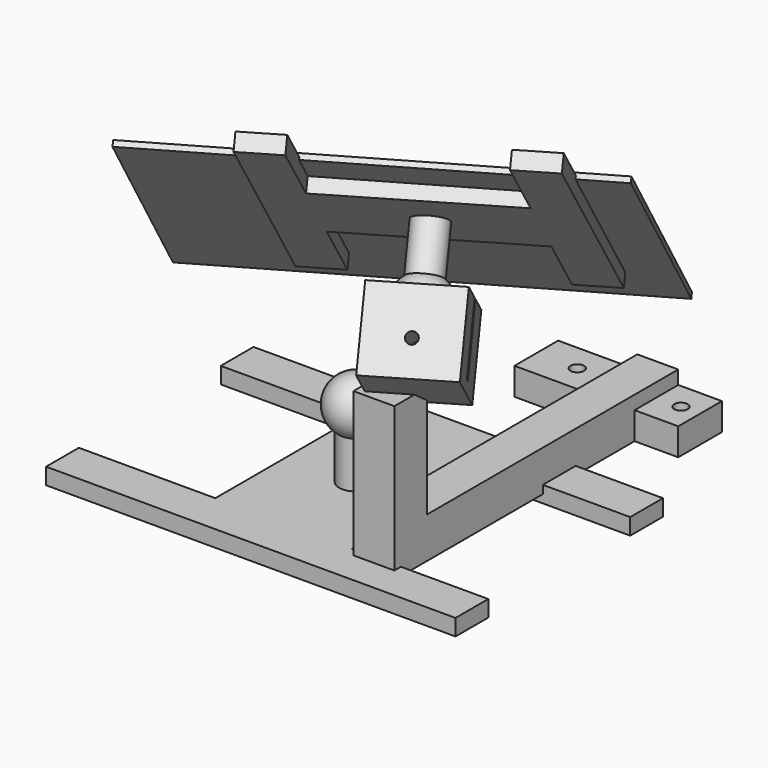
from build123d import *

# Parameters (mm, degrees)
BOX001_W                  = 150
BOX001_H                  = 150
BOX001_DEPTH              = 2
BOX001_PITCH_ANGLE        = -40
BOX001_PLACEMENT_ANGLE    = -60
SPHERE_PLACEMENT_ANGLE    = 300
CYLINDER002_R             = 6
CYLINDER002_DEPTH         = 30
SPHERE001_PLACEMENT_ANGLE = 60
BOX004_W                  = 150
BOX004_H                  = 15
BOX004_DEPTH              = 6
BOX005_W                  = 50
BOX005_H                  = 81
BOX005_DEPTH              = 6
BOX003_W                  = 150
BOX003_H                  = 15
BOX003_DEPTH              = 6
FUSION001_ROLL_ANGLE      = 0.348974
FUSION001_PITCH_ANGLE     = -39.860816
FUSION001_PLACEMENT_ANGLE = -60.209911
CYLINDER001_R             = 2.5
CYLINDER001_DEPTH         = 15
CYLINDER_R                = 2.5
CYLINDER_DEPTH            = 16
BOX009_W                  = 17
BOX009_H                  = 130
BOX009_DEPTH              = 56
BOX008_W                  = 15
BOX008_H                  = 130
BOX008_DEPTH              = 56
BOX_W                     = 60
BOX_H                     = 20
BOX_DEPTH                 = 10
CYLINDER003_R             = 2
CYLINDER003_DEPTH         = 40
BOX007_W                  = 2
BOX007_H                  = 30
BOX007_DEPTH              = 28
SPHERE002_PLACEMENT_ANGLE = 60
BOX006_W                  = 30
BOX006_H                  = 30
BOX006_DEPTH              = 28
CHAMFER_SIZE              = 1
CUT002_ROLL_ANGLE         = 0.348974
CUT002_PITCH_ANGLE        = -39.860816
CUT002_PLACEMENT_ANGLE    = -60.209911
CYLINDER004_R             = 6
CYLINDER004_DEPTH         = 30
SPHERE003_PLACEMENT_ANGLE = 60
BOX011_W                  = 150
BOX011_H                  = 15
BOX011_DEPTH              = 6
BOX012_W                  = 50
BOX012_H                  = 81
BOX012_DEPTH              = 6
BOX010_W                  = 150
BOX010_H                  = 15
BOX010_DEPTH              = 6
FUSION006_PLACEMENT_ANGLE = 180


with BuildPart() as cube001:
    # Box001 → Box001 (new body)
    with BuildSketch(Plane.XY):
        with Locations((75, 75)):
            Rectangle(BOX001_W, BOX001_H)
    extrude(amount=BOX001_DEPTH)


with BuildPart() as cube001_1:
    # Box001 pitch: moved
    add(cube001.part.rotate(Axis((0, 0, 0), (0, 1, 0)), BOX001_PITCH_ANGLE))


with BuildPart() as cube001_2:
    # Box001 placement: moved
    add(cube001_1.part.moved(Location((-101.324972, -58.5, 35))).rotate(Axis((-101.324972, -58.5, 35), (0, 0, 1)), BOX001_PLACEMENT_ANGLE))


with BuildPart() as sphere:
    # Sphere → Sphere (revolve)
    with BuildSketch(Plane.XZ):
        with BuildLine():
            ThreePointArc((0, -5), (5, 0), (0, 5))
            Line((0, 5), (0, -5))
        make_face()
    revolve(axis=Axis((0, 0, 0), (0, 0, 1)))


with BuildPart() as sphere_1:
    # Sphere placement: moved
    add(sphere.part.moved(Location((14, -84, 102))).rotate(Axis((14, -84, 102), (0, 0, 1)), SPHERE_PLACEMENT_ANGLE))


with BuildPart() as cylinder002:
    # Cylinder002 → Cylinder002 (new body)
    with BuildSketch(Plane(origin=(14, -84, 72), x_dir=(1, 0, 0), z_dir=(0, 0, 1))):
        Circle(CYLINDER002_R)
    extrude(amount=CYLINDER002_DEPTH)


with BuildPart() as sphere001:
    # Sphere001 → Sphere001 (revolve)
    with BuildSketch(Plane.XZ):
        with BuildLine():
            ThreePointArc((0, -10), (10, 0), (0, 10))
            Line((0, 10), (0, -10))
        make_face()
    revolve(axis=Axis((0, 0, 0), (0, 0, 1)))


with BuildPart() as sphere001_1:
    # Sphere001 placement: moved
    add(sphere001.part.moved(Location((14, -84, 72))).rotate(Axis((14, -84, 72), (0, 0, -1)), SPHERE001_PLACEMENT_ANGLE))


with BuildPart() as cube004:
    # Box004 → Box004 (new body)
    with BuildSketch(Plane(origin=(-61, -132, 0), x_dir=(1, 0, 0), z_dir=(0, 0, 1))):
        with Locations((75, 7.5)):
            Rectangle(BOX004_W, BOX004_H)
    extrude(amount=BOX004_DEPTH)


with BuildPart() as cube005:
    # Box005 → Box005 (new body)
    with BuildSketch(Plane(origin=(-11, -125, 0), x_dir=(1, 0, 0), z_dir=(0, 0, 1))):
        with Locations((25, 40.5)):
            Rectangle(BOX005_W, BOX005_H)
    extrude(amount=BOX005_DEPTH)


with BuildPart() as mirror_mount:
    # Box003 → Box003 (new body)
    with BuildSketch(Plane(origin=(-61, -52, 0), x_dir=(1, 0, 0), z_dir=(0, 0, 1))):
        with Locations((75, 7.5)):
            Rectangle(BOX003_W, BOX003_H)
    extrude(amount=BOX003_DEPTH)

    # Fusion: union Cube004, Cube005
    add(cube004.part)
    add(cube005.part)


with BuildPart() as mirror_mount_1:
    # Fusion placement: moved
    add(mirror_mount.part.moved(Location((0, 0, 97))))

    # Fusion001: union Cylinder002, Sphere001
    add(cylinder002.part)
    add(sphere001_1.part)


with BuildPart() as mirror_mount_2:
    # Fusion001 roll: moved
    add(mirror_mount_1.part.rotate(Axis((0, 0, 0), (1, 0, 0)), FUSION001_ROLL_ANGLE))


with BuildPart() as mirror_mount_3:
    # Fusion001 pitch: moved
    add(mirror_mount_2.part.rotate(Axis((0, 0, 0), (0, 1, 0)), FUSION001_PITCH_ANGLE))


with BuildPart() as mirror_mount_4:
    # Fusion001 placement: moved
    add(mirror_mount_3.part.moved(Location((114.414239, -89.082173, 15.125653))).rotate(Axis((114.414239, -89.082173, 15.125653), (0, 0, 1)), FUSION001_PLACEMENT_ANGLE))


with BuildPart() as cylinder001:
    # Cylinder001 → Cylinder001 (new body)
    with BuildSketch(Plane(origin=(38, 0, -1), x_dir=(1, 0, 0), z_dir=(0, 0, 1))):
        Circle(CYLINDER001_R)
    extrude(amount=CYLINDER001_DEPTH)


with BuildPart() as screw_holes:
    # Cylinder → Cylinder (new body)
    with BuildSketch(Plane.XY.offset(-1)):
        Circle(CYLINDER_R)
    extrude(amount=CYLINDER_DEPTH)

    # Fusion003: union Cylinder001
    add(cylinder001.part)


with BuildPart() as cube009:
    # Box009 → Box009 (new body)
    with BuildSketch(Plane(origin=(13, -105, 15), x_dir=(1, 0, 0), z_dir=(0, 0, 1))):
        with Locations((8.5, 65)):
            Rectangle(BOX009_W, BOX009_H)
    extrude(amount=BOX009_DEPTH)


with BuildPart() as cut003:
    # Box008 → Box008 (new body)
    with BuildSketch(Plane(origin=(14, -120, 0), x_dir=(1, 0, 0), z_dir=(0, 0, 1))):
        with Locations((7.5, 65)):
            Rectangle(BOX008_W, BOX008_H)
    extrude(amount=BOX008_DEPTH)

    # Cut003: cut Cube009
    add(cube009.part, mode=Mode.SUBTRACT)


with BuildPart() as cut004:
    # Box → Box (new body)
    with BuildSketch(Plane(origin=(-15, -10, 0), x_dir=(1, 0, 0), z_dir=(0, 0, 1))):
        with Locations((30, 10)):
            Rectangle(BOX_W, BOX_H)
    extrude(amount=BOX_DEPTH)

    # Fusion002: union Cut003
    add(cut003.part)

    # Cut004: cut screw-holes
    add(screw_holes.part, mode=Mode.SUBTRACT)


with BuildPart() as cylinder003:
    # Cylinder003 → Cylinder003 (new body)
    with BuildSketch(Plane(origin=(-7, -84, 59), x_dir=(0, 0, -1), z_dir=(1, 0, 0))):
        Circle(CYLINDER003_R)
    extrude(amount=CYLINDER003_DEPTH)


with BuildPart() as cube007:
    # Box007 → Box007 (new body)
    with BuildSketch(Plane(origin=(13, -99, 51), x_dir=(1, 0, 0), z_dir=(0, 0, 1))):
        with Locations((1, 15)):
            Rectangle(BOX007_W, BOX007_H)
    extrude(amount=BOX007_DEPTH)


with BuildPart() as sphere002:
    # Sphere002 → Sphere002 (revolve)
    with BuildSketch(Plane.XZ):
        with BuildLine():
            ThreePointArc((0, -10.5), (10.5, 0), (0, 10.5))
            Line((0, 10.5), (0, -10.5))
        make_face()
    revolve(axis=Axis((0, 0, 0), (0, 0, 1)))


with BuildPart() as sphere002_1:
    # Sphere002 placement: moved
    add(sphere002.part.moved(Location((14, -84, 72))).rotate(Axis((14, -84, 72), (0, 0, -1)), SPHERE002_PLACEMENT_ANGLE))


with BuildPart() as bracket:
    # Box006 → Box006 (new body)
    with BuildSketch(Plane(origin=(-1, -99, 47), x_dir=(1, 0, 0), z_dir=(0, 0, 1))):
        with Locations((15, 15)):
            Rectangle(BOX006_W, BOX006_H)
    extrude(amount=BOX006_DEPTH)

    # Cut: cut Sphere002
    add(sphere002_1.part, mode=Mode.SUBTRACT)

    # Chamfer
    chamfer_edges = [bracket.edges().sort_by_distance(p)[0] for p in [
        (8.968847, -75.285787, 75),
    ]]
    chamfer(chamfer_edges, length=CHAMFER_SIZE)

    # Cut001: cut Cube007
    add(cube007.part, mode=Mode.SUBTRACT)

    # Cut002: cut Cylinder003
    add(cylinder003.part, mode=Mode.SUBTRACT)


with BuildPart() as bracket_1:
    # Cut002 roll: moved
    add(bracket.part.rotate(Axis((0, 0, 0), (1, 0, 0)), CUT002_ROLL_ANGLE))


with BuildPart() as bracket_2:
    # Cut002 pitch: moved
    add(bracket_1.part.rotate(Axis((0, 0, 0), (0, 1, 0)), CUT002_PITCH_ANGLE))


with BuildPart() as bracket_3:
    # Cut002 placement: moved
    add(bracket_2.part.moved(Location((114.414239, -89.082173, 15.125653))).rotate(Axis((114.414239, -89.082173, 15.125653), (0, 0, 1)), CUT002_PLACEMENT_ANGLE))

    # Fusion004: union Cut004
    add(cut004.part)


with BuildPart() as cylinder004:
    # Cylinder004 → Cylinder004 (new body)
    with BuildSketch(Plane(origin=(14, -84, 72), x_dir=(1, 0, 0), z_dir=(0, 0, 1))):
        Circle(CYLINDER004_R)
    extrude(amount=CYLINDER004_DEPTH)


with BuildPart() as sphere003:
    # Sphere003 → Sphere003 (revolve)
    with BuildSketch(Plane.XZ):
        with BuildLine():
            ThreePointArc((0, -10), (10, 0), (0, 10))
            Line((0, 10), (0, -10))
        make_face()
    revolve(axis=Axis((0, 0, 0), (0, 0, 1)))


with BuildPart() as sphere003_1:
    # Sphere003 placement: moved
    add(sphere003.part.moved(Location((14, -84, 72))).rotate(Axis((14, -84, 72), (0, 0, -1)), SPHERE003_PLACEMENT_ANGLE))


with BuildPart() as cube011:
    # Box011 → Box011 (new body)
    with BuildSketch(Plane(origin=(-61, -132, 0), x_dir=(1, 0, 0), z_dir=(0, 0, 1))):
        with Locations((75, 7.5)):
            Rectangle(BOX011_W, BOX011_H)
    extrude(amount=BOX011_DEPTH)


with BuildPart() as cube012:
    # Box012 → Box012 (new body)
    with BuildSketch(Plane(origin=(-11, -125, 0), x_dir=(1, 0, 0), z_dir=(0, 0, 1))):
        with Locations((25, 40.5)):
            Rectangle(BOX012_W, BOX012_H)
    extrude(amount=BOX012_DEPTH)


with BuildPart() as mirror_mount_for_print:
    # Box010 → Box010 (new body)
    with BuildSketch(Plane(origin=(-61, -52, 0), x_dir=(1, 0, 0), z_dir=(0, 0, 1))):
        with Locations((75, 7.5)):
            Rectangle(BOX010_W, BOX010_H)
    extrude(amount=BOX010_DEPTH)

    # Fusion005: union Cube011, Cube012
    add(cube011.part)
    add(cube012.part)


with BuildPart() as mirror_mount_for_print_1:
    # Fusion005 placement: moved
    add(mirror_mount_for_print.part.moved(Location((0, 0, 97))))

    # Fusion006: union Cylinder004, Sphere003
    add(cylinder004.part)
    add(sphere003_1.part)


with BuildPart() as mirror_mount_for_print_2:
    # Fusion006 placement: moved
    add(mirror_mount_for_print_1.part.moved(Location((0, 0, 100))).rotate(Axis((0, 0, 100), (0, 1, 0)), FUSION006_PLACEMENT_ANGLE))


solid = Compound([cube001_2.part, sphere_1.part, mirror_mount_4.part, bracket_3.part, mirror_mount_for_print_2.part])
